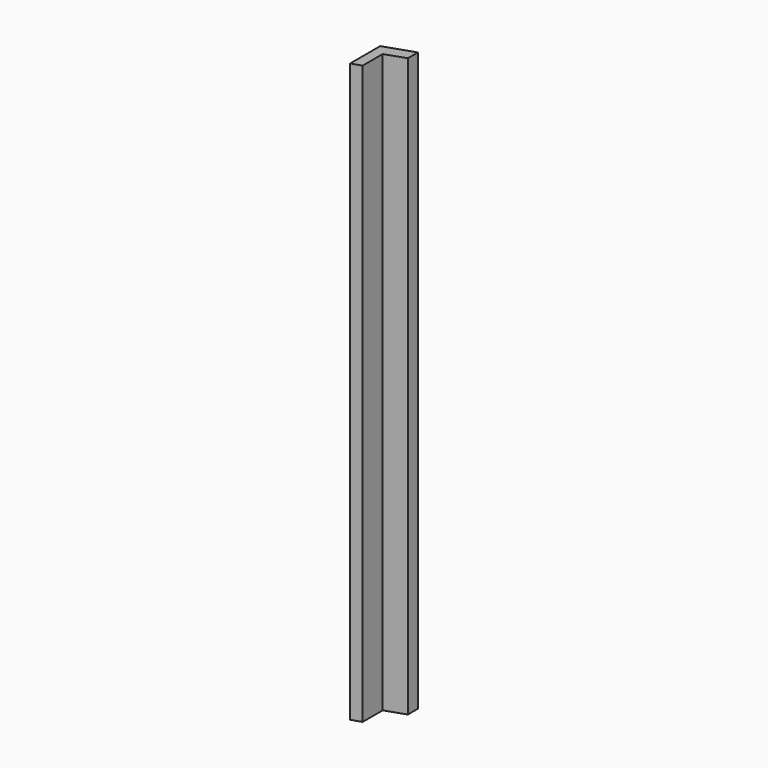
from build123d import *

# Parameters (mm, degrees)
F1_DEPTH = 1016
F3_DEPTH = 57.151


with BuildPart() as f1:
    # F0 (on Top) → F1 (new body)
    with BuildSketch(Plane.XY):
        Polygon((57.15, 0), (0, 0), (0, -57.15), (19.05, -57.15), (19.05, -19.05), (57.15, -19.05), align=None)
    extrude(amount=F1_DEPTH)

    # F2 (on face) → F3 (cut, through all)
    with BuildSketch(Plane(origin=(0, 0, 0), x_dir=(-1, 0, 0), z_dir=(0, 1, 0))):
        Polygon((-57.15, 0), (0, 0), (-57.15, 10.077087), align=None)
        Polygon((0, 876.922422), (0, 1016), (-57.15, 1016), (-57.15, 886.999509), align=None)
    extrude(amount=-F3_DEPTH, mode=Mode.SUBTRACT)


solid = f1.part
